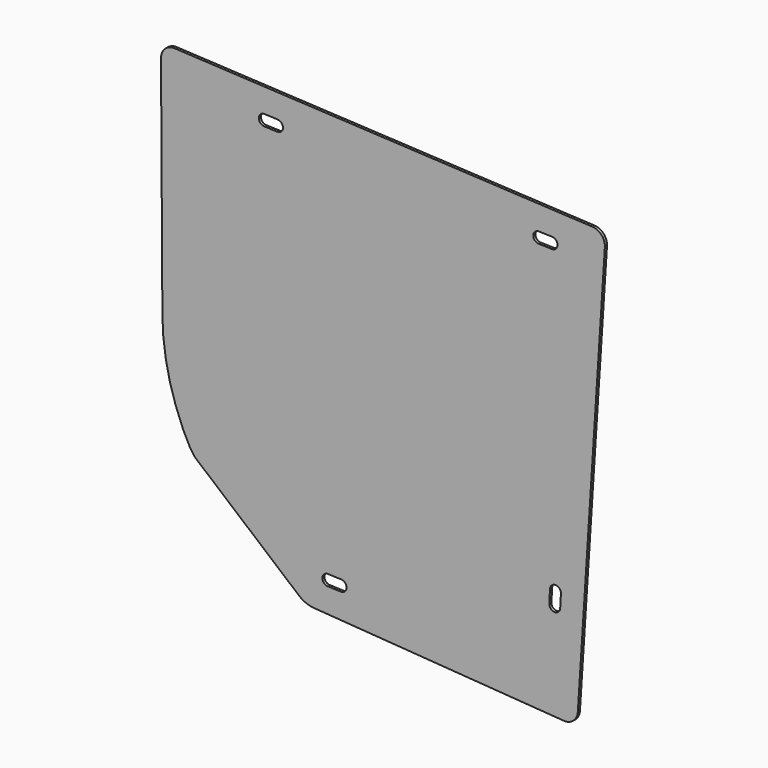
from build123d import *

# Parameters (mm, degrees)
F1_DEPTH = 1.3


with BuildPart() as f1:
    # F0 (on Front) → F1 (new body)
    with BuildSketch(Plane.XZ):
        with BuildLine():
            ThreePointArc((103.3079727003, -174.0017143415), (107.9375486889, -172.4540817784), (110.1009118369, -168.0782389711))
            Line((110.1009118369, -168.0782389711), (123.3140694013, 36.0793576773))
            ThreePointArc((123.3140694013, 36.0793576773), (121.7186870706, 40.7134537603), (117.2988791147, 42.8313274396))
            Line((117.2988791147, 42.8313274396), (-86.6861012737, 53.1740147545))
            ThreePointArc((-86.6861012737, 53.1740147545), (-91.3968478399, 51.4210035289), (-93.3575316623, 46.7928396902))
            Line((-93.3575316623, 46.7928396902), (-92.6750005064, -63.4259672216))
            add(Edge.make_bspline(
                [(-92.6750005064, -63.4259672216), (-92.6146745207, -73.1677322968), (-89.962188232, -93.9434810925), (-79.4723870211, -117.0371161404), (-76.2930011516, -119.7242526752)],
                knots=[0, 0, 0, 0, 0.5251404871, 1, 1, 1, 1], degree=3))
            Line((-76.2930011516, -119.7242526752), (-25.9811858827, -162.2465266281))
            ThreePointArc((-25.9811858827, -162.2465266281), (-22.5739765007, -164.3085989306), (-18.6956488116, -165.2140227485))
            Line((-18.6956488116, -165.2140227485), (103.3079727003, -174.0017143415))
        make_face()
        with BuildLine():
            ThreePointArc((-12.0174558833, -153.6898314953), (-14.5808883162, -150.9231381327), (-11.8141949536, -148.3597056999))
            Line((-11.8141949536, -148.3597056999), (-5.3496916575, -148.6062253883))
            ThreePointArc((-5.3496916575, -148.6062253883), (-2.7862592246, -151.3729187508), (-5.5529525872, -153.9363511837))
            Line((-5.5529525872, -153.9363511837), (-12.0174558833, -153.6898314953))
        make_face(mode=Mode.SUBTRACT)
        with BuildLine():
            ThreePointArc((101.5041172504, -126.2639015913), (98.693107204, -128.7786581439), (96.1783506514, -125.9676480975))
            Line((96.1783506514, -125.9676480975), (96.5376539326, -119.5084317383))
            ThreePointArc((96.5376539326, -119.5084317383), (99.348663979, -116.9936751857), (101.8634205316, -119.8046852321))
            Line((101.8634205316, -119.8046852321), (101.5041172504, -126.2639015913))
        make_face(mode=Mode.SUBTRACT)
        with BuildLine():
            ThreePointArc((-43.0372696765, 33.8666485342), (-45.6007021093, 36.6333418967), (-42.8340087468, 39.1967743295))
            Line((-42.8340087468, 39.1967743295), (-36.3695054507, 38.9502546412))
            ThreePointArc((-36.3695054507, 38.9502546412), (-33.8060730178, 36.1835612786), (-36.5727663804, 33.6201288458))
            Line((-36.5727663804, 33.6201288458), (-43.0372696765, 33.8666485342))
        make_face(mode=Mode.SUBTRACT)
        with BuildLine():
            ThreePointArc((90.9557119012, 26.9728396088), (88.3633950976, 29.7124876865), (91.1030431753, 32.3048044901))
            Line((91.1030431753, 32.3048044901), (97.5697769586, 32.1261176179))
            ThreePointArc((97.5697769586, 32.1261176179), (100.1620937622, 29.3864695402), (97.4224456845, 26.7941527365))
            Line((97.4224456845, 26.7941527365), (90.9557119012, 26.9728396088))
        make_face(mode=Mode.SUBTRACT)
    extrude(amount=F1_DEPTH)


solid = f1.part
